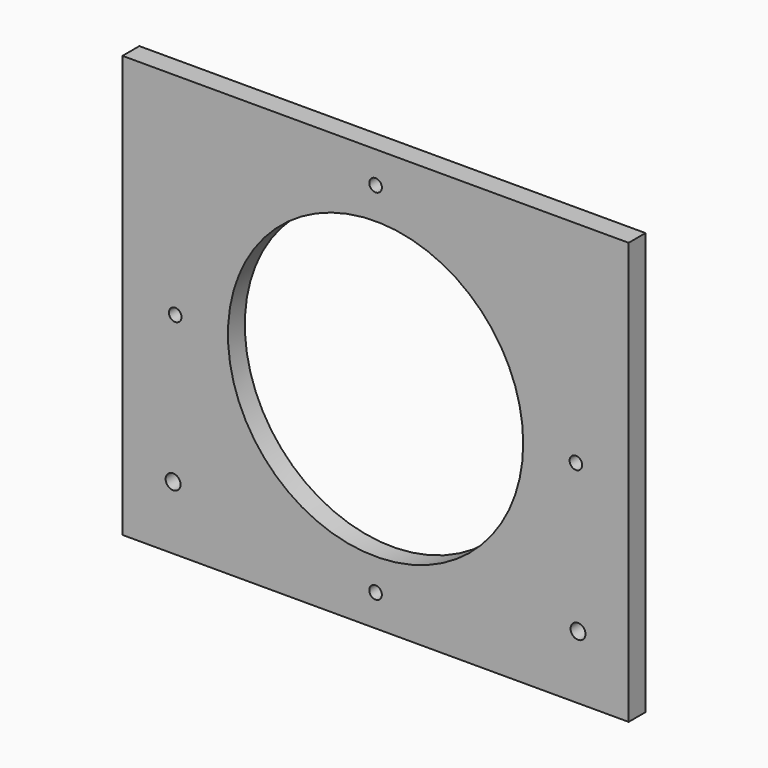
from build123d import *

# Parameters (mm, degrees)
F0_W     = 152.4
F0_H     = 127
F0_R     = 44.45
F1_DEPTH = 6.35
F4_D     = 3.7973
F6_D     = 4.4958


with BuildPart() as f1:
    # F0 (on Front) → F1 (new body)
    with BuildSketch(Plane.XZ):
        Rectangle(F0_W, F0_H)
        Circle(F0_R, mode=Mode.SUBTRACT)
    extrude(amount=F1_DEPTH)

    # F4 (through all)
    with Locations(Plane(origin=(0, 0, 0), x_dir=(-1, 0, 0), z_dir=(0, 1, 0))):
        with Locations((-60.325, 0), (0, 53.975), (60.325, 0), (0, -53.975)):
            Hole(F4_D / 2)

    # F6 (through all)
    with Locations(Plane.XZ.offset(6.35)):
        with Locations((-60.96, -44.45), (60.96, -44.45)):
            Hole(F6_D / 2)


solid = f1.part
